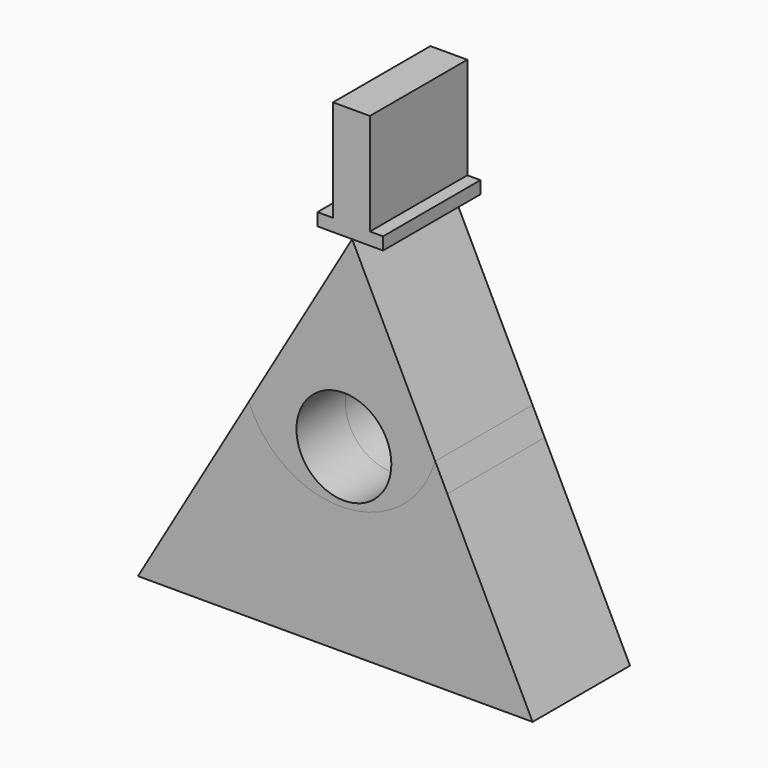
from build123d import *

# Parameters (mm, degrees)
F0_W     = 7.7014972921
F0_H     = 21.2219059467
F1_DEPTH = 12.7
F2_DEPTH = 12.7


with BuildPart() as f1:
    # F0 (on Front) → F1 (new body, symmetric)
    with BuildSketch(Plane.XZ):
        Polygon((-7.238256745, 76.4159709215), (0, 76.4159709215), (6.4532933757, 76.4159709215), (6.4532933757, 79.0277123451), (3.7149835844, 79.0277123451), (-3.9865137078, 79.0277123451), (-7.238256745, 79.0277123451), align=None)
        with Locations((-0.1357650617, 89.6386653185)):
            Rectangle(F0_W, F0_H)
    extrude(amount=F1_DEPTH, both=True)


with BuildPart() as f1b:
    # F0 (on Front) → F1, piece 2 (new body, symmetric)
    with BuildSketch(Plane.XZ):
        with BuildLine():
            Line((17.3220709686, 41.2600404343), (0, 76.4159709215))
            Line((0, 76.4159709215), (-21.5230545638, 39.5958789949))
            ThreePointArc((-21.5230545638, 39.5958789949), (-13.0451934188, 45.1237764238), (-3.2121875635, 47.520393921))
            ThreePointArc((-3.2121875635, 47.520393921), (-2.0009642715, 47.6305979408), (-0.78536921, 47.5914133078))
            ThreePointArc((-0.78536921, 47.5914133078), (8.7876406396, 45.9108721087), (17.3220709686, 41.2600404343))
        make_face()
        with BuildLine():
            ThreePointArc((-3.2121875635, 47.520393921), (-13.0451934188, 45.1237764238), (-21.5230545638, 39.5958789949))
            ThreePointArc((-21.5230545638, 39.5958789949), (-1.5059378491, 26.5497852672), (17.3220709686, 41.2600404343))
            ThreePointArc((17.3220709686, 41.2600404343), (8.7876406396, 45.9108721087), (-0.78536921, 47.5914133078))
            ThreePointArc((-0.78536921, 47.5914133078), (5.6072402658, 44.400467109), (8.1860534635, 37.7373360097))
            ThreePointArc((8.1860534635, 37.7373360097), (-8.1576383823, 30.226874629), (-3.2121875635, 47.520393921))
        make_face()
    extrude(amount=F1_DEPTH, both=True)


with BuildPart() as f2:
    # F0 (on Front) → F2 (new body, symmetric)
    with BuildSketch(Plane.XZ):
        with BuildLine():
            ThreePointArc((17.3220709686, 41.2600404343), (-1.5059378491, 26.5497852672), (-21.5230545638, 39.5958789949))
            Line((-21.5230545638, 39.5958789949), (-23.7980011796, 35.7040641377))
            Line((-23.7980011796, 35.7040641377), (-44.6686856449, 0))
            Line((-44.6686856449, 0), (-30.3427483886, 0))
            Line((-30.3427483886, 0), (10.7319038361, 0))
            Line((10.7319038361, 0), (37.6517660916, 0))
            Line((37.6517660916, 0), (19.8661076984, 36.09680224))
            Line((19.8661076984, 36.09680224), (17.3220709686, 41.2600404343))
        make_face()
    extrude(amount=F2_DEPTH, both=True)


solid = Compound([f1.part, f1b.part, f2.part])
